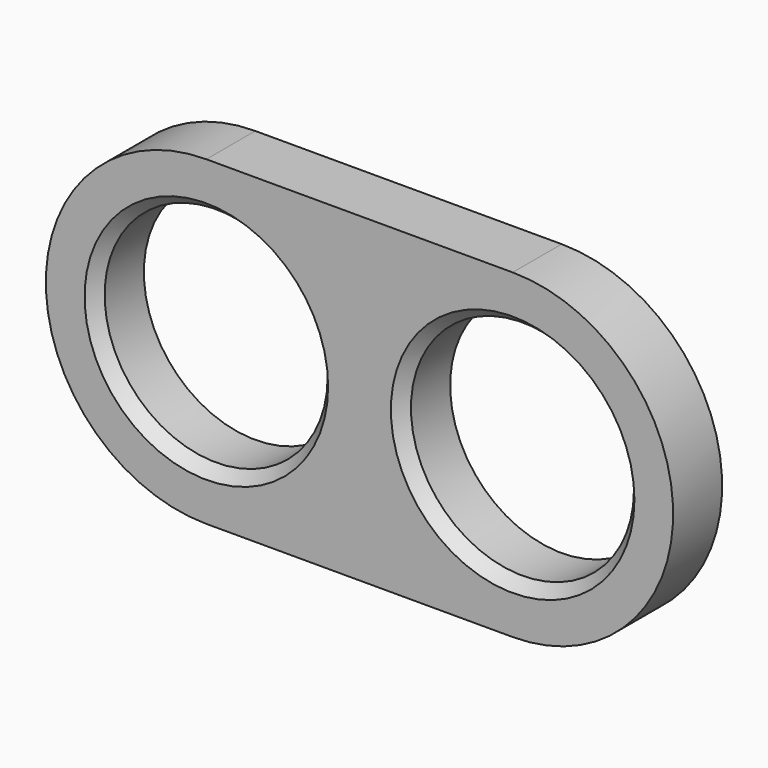
from build123d import *

# Parameters (mm, degrees)
F0_R     = 9.1
F1_DEPTH = 5
F2_SIZE2 = 0.8391
F2_SIZE  = 1


with BuildPart() as f1:
    # F0 (on Front) → F1 (new body)
    with BuildSketch(Plane.XZ):
        with BuildLine():
            Line((25, 13.1), (0, 13.1))
            ThreePointArc((0, 13.1), (-13.1, 0), (0, -13.1))
            Line((0, -13.1), (25, -13.1))
            ThreePointArc((25, -13.1), (38.1, 0), (25, 13.1))
        make_face()
        Circle(F0_R, mode=Mode.SUBTRACT)
        with Locations((25, 0)):
            Circle(F0_R, mode=Mode.SUBTRACT)
    extrude(amount=F1_DEPTH)

    # F2
    f2_edges = [f1.edges().sort_by_distance(p)[0] for p in [
        (-9.1, -5, 0),
        (15.9, -5, 0),
    ]]
    chamfer(f2_edges, length=F2_SIZE, length2=F2_SIZE2)


solid = f1.part
